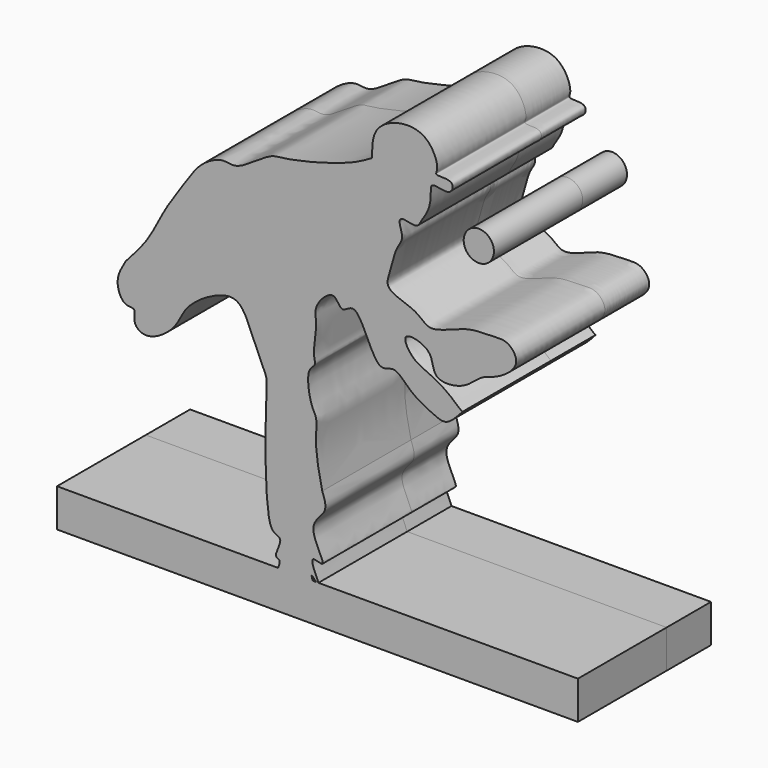
from build123d import *

# Parameters (mm, degrees)
F1_DEPTH = 12.7
F0_R     = 3.4646525672
F2_DEPTH = 25.4


with BuildPart() as f1:
    # F0 (on Front) → F1 (new body)
    with BuildSketch(Plane.XZ):
        with BuildLine():
            add(Edge.make_bspline(
                [(-37.4386571348, 0), (-35.6418648103, 1.9655861704), (-32.0202403871, 5.9274323913), (-28.6948333521, 13.3963000649), (-23.8638983433, 20.1218328372), (-20.6492472937, 25.3070509285), (-15.2343028794, 28.1800373183), (-11.8982889507, 26.4144016114), (-4.466286247, 32.5241939032), (-1.2565267657, 32.1837075576), (12.9247121568, 35.6315258291), (17.1605435375, 38.085105449), (18.9292877913, 39.1096398234)],
                knots=[0, 0, 0, 0, 0.1066947881, 0.2150545977, 0.3237254241, 0.4182542597, 0.5057213855, 0.57465581, 0.6846331194, 0.757140384, 0.8985897899, 1, 1, 1, 1], degree=3))
            add(Edge.make_bspline(
                [(-37.4386571348, 0), (-38.3676544146, -1.5464404413), (-40.1392214332, -4.4954511019), (-38.0019809899, -9.3708640599), (-34.7987965325, -8.5192537949), (-36.0765875101, -12.1020025034), (-32.2136181881, -14.5717645155), (-25.5066142614, -9.8101602808), (-24.1737245259, -4.4613822747), (-16.5608733486, 0.4662887906), (-10.9088773004, 1.0681816016), (-8.2388595476, -6.4595978002), (-5.0136019945, -12.9118980509), (-5.2889076985, -14.8788062005), (-5.9544869903, -43.2746316243), (-2.7504183063, -43.865057337), (-1.4772856155, -44.8682549686), (-3.8430471049, -48.658190148), (-1.8546676317, -48.5717170273), (-2.302459375, -49.826374902), (-2.5417198464, -50.4994094372)],
                knots=[0, 0, 0, 0, 0.0397044538, 0.0757150772, 0.1003051297, 0.1280418001, 0.1598589216, 0.2067370922, 0.2481789907, 0.2993007354, 0.3366059884, 0.384103306, 0.4292879246, 0.4587010987, 0.5493166266, 0.5753678742, 0.5939703998, 0.6263447068, 0.6438741036, 0.6600466888, 0.6600466888, 0.6600466888, 0.6600466888], degree=3))
            Line((-2.5417198464, -50.4994094372), (5.3642448427, -50.4994094372))
            add(Edge.make_bspline(
                [(5.3642448427, -50.4994094372), (5.1872521502, -49.9223948707), (4.9432925694, -49.1159948327), (5.7584284263, -50.0560892457), (6.1445142804, -50.4994094372)],
                knots=[0.7737397858, 0.7737397858, 0.7737397858, 0.7737397858, 0.7875860869, 0.80146309, 0.80146309, 0.80146309, 0.80146309], degree=3))
            Line((6.1445142804, -50.4994094372), (6.6925615738, -50.4994094372))
            add(Edge.make_bspline(
                [(6.6925615738, -50.4994094372), (6.1497521085, -49.2305339603), (3.9806719548, -44.7196945557), (9.7823822852, -48.1277255261), (3.241456153, -39.2437824003), (9.1648869953, -36.0624895955), (8.0826138261, -33.106578341), (7.5749126263, -31.7199416459)],
                knots=[0.8253764959, 0.8253764959, 0.8253764959, 0.8253764959, 0.8550198068, 0.8809728233, 0.925899364, 0.9652389222, 1, 1, 1, 1], degree=3))
            add(Edge.make_bspline(
                [(7.5749126263, -31.7199416459), (6.9007289659, -28.6215203257), (5.7167167982, -23.1800230606), (6.5872697264, -17.3428759363), (4.9137868666, -15.6343272657), (3.6335738336, -8.2226718754), (6.3274530786, -6.93087691), (5.2275576346, -4.727973781), (6.6441528494, 1.8058092968), (5.3020110852, 4.9729828932), (10.4044517509, 10.3303081299), (11.8669921686, 5.0261132156), (15.8124792651, 10.1812793873), (19.7195141916, -4.5468018538), (24.1651227879, -0.669337993), (27.5759499216, -5.3810562057), (33.1393409406, -8.0399713443), (36.182605596, -9.2115149339), (38.4387136729, -6.6922623194), (39.7358611226, -5.2438201383)],
                knots=[0, 0, 0, 0, 0.0836305405, 0.1468732979, 0.1898394028, 0.2621869099, 0.3027888617, 0.3415066155, 0.4118124484, 0.4646354261, 0.5265395243, 0.5733675321, 0.6197107456, 0.7115840397, 0.760849205, 0.8223462561, 0.8923864002, 0.9381276509, 1, 1, 1, 1], degree=3))
            add(Edge.make_bspline(
                [(18.9292877913, 39.1096398234), (18.9591685738, 41.285550804), (19.019225108, 45.6588523335), (25.3218155341, 48.8999824127), (32.0729586831, 48.0576183064), (34.4713220772, 41.9789568134), (32.9868731409, 40.138323117), (38.0313053669, 41.0097200411), (37.0863196605, 36.8863632272), (32.1201353052, 39.1660366545), (32.6236885862, 35.8054257064), (31.8819190849, 32.3923635691), (30.2456114663, 30.4129228347), (29.4179544277, 28.0960985455), (25.8797928387, 29.5786010397), (24.9184908986, 28.3036361224), (26.5038160257, 25.1030814733), (24.2104553794, 22.7249215249), (23.553213385, 18.294025084), (21.261102504, 13.4074489309), (29.4781112269, 12.0127108011), (32.0428015222, 7.7897926849), (40.4065578761, 12.4162113215), (46.1694860671, 11.9787507009), (50.1960357067, 12.6191324529), (53.48657794, 8.0383865732), (47.3702700881, 3.8589387248), (43.8408854434, 3.4885690759), (40.3589228479, -0.7052087651), (32.3422319557, -1.2855894929), (33.4354510369, 5.0969400298), (25.0358649123, 6.9891331793), (28.1033456519, 1.498008455), (31.9035234217, 0.1200307441), (36.8341064801, -2.5896351977), (39.4674523496, -5.3623619448), (39.7358611226, -5.2438201383)],
                knots=[0, 0, 0, 0, 0.0354847468, 0.0713197823, 0.1073875319, 0.1415713891, 0.1568108096, 0.1833216714, 0.203963959, 0.2320003285, 0.2531826547, 0.2806956794, 0.3039117204, 0.3237492718, 0.3492590555, 0.3638553642, 0.3890455465, 0.4137455279, 0.4448107897, 0.4733427362, 0.5105581185, 0.5398839847, 0.5812480451, 0.6166487857, 0.6443206805, 0.6726095766, 0.708180985, 0.7355779146, 0.7685958669, 0.8038613339, 0.8351148808, 0.8680393997, 0.8954363324, 0.9255631648, 0.9612267014, 0.9875317784, 0.9875317784, 0.9875317784, 0.9875317784], degree=3))
        make_face()
        with BuildLine():
            Line((5.3642448427, -50.4994094372), (-2.5417198464, -50.4994094372))
            add(Edge.make_bspline(
                [(-2.5417198464, -50.4994094372), (-2.8098953325, -51.2537812839), (-3.7252672636, -53.8378827838), (1.1909552642, -54.5208851831), (6.707524503, -54.8445623852), (5.6240423951, -51.3463764498), (5.3642448427, -50.4994094372)],
                knots=[0.6600466888, 0.6600466888, 0.6600466888, 0.6600466888, 0.6781737572, 0.715578416, 0.7534155845, 0.7737397858, 0.7737397858, 0.7737397858, 0.7737397858], degree=3))
        make_face()
        with BuildLine():
            add(Edge.make_bspline(
                [(-2.5417198464, -50.4994094372), (-2.8098953325, -51.2537812839), (-3.7252672636, -53.8378827838), (1.1909552642, -54.5208851831), (6.707524503, -54.8445623852), (5.6240423951, -51.3463764498), (5.3642448427, -50.4994094372)],
                knots=[0.6600466888, 0.6600466888, 0.6600466888, 0.6600466888, 0.6781737572, 0.715578416, 0.7534155845, 0.7737397858, 0.7737397858, 0.7737397858, 0.7737397858], degree=3))
            Line((-2.5417198464, -50.4994094372), (-53.1821884215, -50.4994094372))
            Line((-53.1821884215, -50.4994094372), (-53.1821884215, -59.2210108976))
            Line((-53.1821884215, -59.2210108976), (66.1226585507, -59.2210108976))
            Line((66.1226585507, -59.2210108976), (66.1226585507, -50.4994094372))
            Line((66.1226585507, -50.4994094372), (6.6925615738, -50.4994094372))
            add(Edge.make_bspline(
                [(6.1445142804, -50.4994094372), (6.5186028583, -50.928953846), (7.1472993515, -51.6474058709), (6.8842379506, -50.947473573), (6.6925615738, -50.4994094372)],
                knots=[0.80146309, 0.80146309, 0.80146309, 0.80146309, 0.8149088774, 0.8253764959, 0.8253764959, 0.8253764959, 0.8253764959], degree=3))
            Line((6.1445142804, -50.4994094372), (5.3642448427, -50.4994094372))
        make_face()
        with BuildLine():
            Line((6.6925615738, -50.4994094372), (6.1445142804, -50.4994094372))
            add(Edge.make_bspline(
                [(6.1445142804, -50.4994094372), (6.5186028583, -50.928953846), (7.1472993515, -51.6474058709), (6.8842379506, -50.947473573), (6.6925615738, -50.4994094372)],
                knots=[0.80146309, 0.80146309, 0.80146309, 0.80146309, 0.8149088774, 0.8253764959, 0.8253764959, 0.8253764959, 0.8253764959], degree=3))
        make_face()
    extrude(amount=-F1_DEPTH)


with BuildPart() as f1b:
    # F0 (on Front) → F1, piece 2 (new body)
    with BuildSketch(Plane.XZ):
        with Locations((43.4240847826, 29.3800681829)):
            Circle(F0_R)
    extrude(amount=-F1_DEPTH)


with BuildPart() as f2:
    # F0 (on Front) → F2 (new body)
    with BuildSketch(Plane.XZ):
        with BuildLine():
            add(Edge.make_bspline(
                [(-37.4386571348, 0), (-35.6418648103, 1.9655861704), (-32.0202403871, 5.9274323913), (-28.6948333521, 13.3963000649), (-23.8638983433, 20.1218328372), (-20.6492472937, 25.3070509285), (-15.2343028794, 28.1800373183), (-11.8982889507, 26.4144016114), (-4.466286247, 32.5241939032), (-1.2565267657, 32.1837075576), (12.9247121568, 35.6315258291), (17.1605435375, 38.085105449), (18.9292877913, 39.1096398234)],
                knots=[0, 0, 0, 0, 0.1066947881, 0.2150545977, 0.3237254241, 0.4182542597, 0.5057213855, 0.57465581, 0.6846331194, 0.757140384, 0.8985897899, 1, 1, 1, 1], degree=3))
            add(Edge.make_bspline(
                [(-37.4386571348, 0), (-38.3676544146, -1.5464404413), (-40.1392214332, -4.4954511019), (-38.0019809899, -9.3708640599), (-34.7987965325, -8.5192537949), (-36.0765875101, -12.1020025034), (-32.2136181881, -14.5717645155), (-25.5066142614, -9.8101602808), (-24.1737245259, -4.4613822747), (-16.5608733486, 0.4662887906), (-10.9088773004, 1.0681816016), (-8.2388595476, -6.4595978002), (-5.0136019945, -12.9118980509), (-5.2889076985, -14.8788062005), (-5.9544869903, -43.2746316243), (-2.7504183063, -43.865057337), (-1.4772856155, -44.8682549686), (-3.8430471049, -48.658190148), (-1.8546676317, -48.5717170273), (-2.302459375, -49.826374902), (-2.5417198464, -50.4994094372)],
                knots=[0, 0, 0, 0, 0.0397044538, 0.0757150772, 0.1003051297, 0.1280418001, 0.1598589216, 0.2067370922, 0.2481789907, 0.2993007354, 0.3366059884, 0.384103306, 0.4292879246, 0.4587010987, 0.5493166266, 0.5753678742, 0.5939703998, 0.6263447068, 0.6438741036, 0.6600466888, 0.6600466888, 0.6600466888, 0.6600466888], degree=3))
            Line((-2.5417198464, -50.4994094372), (5.3642448427, -50.4994094372))
            add(Edge.make_bspline(
                [(5.3642448427, -50.4994094372), (5.1872521502, -49.9223948707), (4.9432925694, -49.1159948327), (5.7584284263, -50.0560892457), (6.1445142804, -50.4994094372)],
                knots=[0.7737397858, 0.7737397858, 0.7737397858, 0.7737397858, 0.7875860869, 0.80146309, 0.80146309, 0.80146309, 0.80146309], degree=3))
            Line((6.1445142804, -50.4994094372), (6.6925615738, -50.4994094372))
            add(Edge.make_bspline(
                [(6.6925615738, -50.4994094372), (6.1497521085, -49.2305339603), (3.9806719548, -44.7196945557), (9.7823822852, -48.1277255261), (3.241456153, -39.2437824003), (9.1648869953, -36.0624895955), (8.0826138261, -33.106578341), (7.5749126263, -31.7199416459)],
                knots=[0.8253764959, 0.8253764959, 0.8253764959, 0.8253764959, 0.8550198068, 0.8809728233, 0.925899364, 0.9652389222, 1, 1, 1, 1], degree=3))
            add(Edge.make_bspline(
                [(7.5749126263, -31.7199416459), (6.9007289659, -28.6215203257), (5.7167167982, -23.1800230606), (6.5872697264, -17.3428759363), (4.9137868666, -15.6343272657), (3.6335738336, -8.2226718754), (6.3274530786, -6.93087691), (5.2275576346, -4.727973781), (6.6441528494, 1.8058092968), (5.3020110852, 4.9729828932), (10.4044517509, 10.3303081299), (11.8669921686, 5.0261132156), (15.8124792651, 10.1812793873), (19.7195141916, -4.5468018538), (24.1651227879, -0.669337993), (27.5759499216, -5.3810562057), (33.1393409406, -8.0399713443), (36.182605596, -9.2115149339), (38.4387136729, -6.6922623194), (39.7358611226, -5.2438201383)],
                knots=[0, 0, 0, 0, 0.0836305405, 0.1468732979, 0.1898394028, 0.2621869099, 0.3027888617, 0.3415066155, 0.4118124484, 0.4646354261, 0.5265395243, 0.5733675321, 0.6197107456, 0.7115840397, 0.760849205, 0.8223462561, 0.8923864002, 0.9381276509, 1, 1, 1, 1], degree=3))
            add(Edge.make_bspline(
                [(18.9292877913, 39.1096398234), (18.9591685738, 41.285550804), (19.019225108, 45.6588523335), (25.3218155341, 48.8999824127), (32.0729586831, 48.0576183064), (34.4713220772, 41.9789568134), (32.9868731409, 40.138323117), (38.0313053669, 41.0097200411), (37.0863196605, 36.8863632272), (32.1201353052, 39.1660366545), (32.6236885862, 35.8054257064), (31.8819190849, 32.3923635691), (30.2456114663, 30.4129228347), (29.4179544277, 28.0960985455), (25.8797928387, 29.5786010397), (24.9184908986, 28.3036361224), (26.5038160257, 25.1030814733), (24.2104553794, 22.7249215249), (23.553213385, 18.294025084), (21.261102504, 13.4074489309), (29.4781112269, 12.0127108011), (32.0428015222, 7.7897926849), (40.4065578761, 12.4162113215), (46.1694860671, 11.9787507009), (50.1960357067, 12.6191324529), (53.48657794, 8.0383865732), (47.3702700881, 3.8589387248), (43.8408854434, 3.4885690759), (40.3589228479, -0.7052087651), (32.3422319557, -1.2855894929), (33.4354510369, 5.0969400298), (25.0358649123, 6.9891331793), (28.1033456519, 1.498008455), (31.9035234217, 0.1200307441), (36.8341064801, -2.5896351977), (39.4674523496, -5.3623619448), (39.7358611226, -5.2438201383)],
                knots=[0, 0, 0, 0, 0.0354847468, 0.0713197823, 0.1073875319, 0.1415713891, 0.1568108096, 0.1833216714, 0.203963959, 0.2320003285, 0.2531826547, 0.2806956794, 0.3039117204, 0.3237492718, 0.3492590555, 0.3638553642, 0.3890455465, 0.4137455279, 0.4448107897, 0.4733427362, 0.5105581185, 0.5398839847, 0.5812480451, 0.6166487857, 0.6443206805, 0.6726095766, 0.708180985, 0.7355779146, 0.7685958669, 0.8038613339, 0.8351148808, 0.8680393997, 0.8954363324, 0.9255631648, 0.9612267014, 0.9875317784, 0.9875317784, 0.9875317784, 0.9875317784], degree=3))
        make_face()
        with BuildLine():
            Line((5.3642448427, -50.4994094372), (-2.5417198464, -50.4994094372))
            add(Edge.make_bspline(
                [(-2.5417198464, -50.4994094372), (-2.8098953325, -51.2537812839), (-3.7252672636, -53.8378827838), (1.1909552642, -54.5208851831), (6.707524503, -54.8445623852), (5.6240423951, -51.3463764498), (5.3642448427, -50.4994094372)],
                knots=[0.6600466888, 0.6600466888, 0.6600466888, 0.6600466888, 0.6781737572, 0.715578416, 0.7534155845, 0.7737397858, 0.7737397858, 0.7737397858, 0.7737397858], degree=3))
        make_face()
        with BuildLine():
            add(Edge.make_bspline(
                [(-2.5417198464, -50.4994094372), (-2.8098953325, -51.2537812839), (-3.7252672636, -53.8378827838), (1.1909552642, -54.5208851831), (6.707524503, -54.8445623852), (5.6240423951, -51.3463764498), (5.3642448427, -50.4994094372)],
                knots=[0.6600466888, 0.6600466888, 0.6600466888, 0.6600466888, 0.6781737572, 0.715578416, 0.7534155845, 0.7737397858, 0.7737397858, 0.7737397858, 0.7737397858], degree=3))
            Line((-2.5417198464, -50.4994094372), (-53.1821884215, -50.4994094372))
            Line((-53.1821884215, -50.4994094372), (-53.1821884215, -59.2210108976))
            Line((-53.1821884215, -59.2210108976), (66.1226585507, -59.2210108976))
            Line((66.1226585507, -59.2210108976), (66.1226585507, -50.4994094372))
            Line((66.1226585507, -50.4994094372), (6.6925615738, -50.4994094372))
            add(Edge.make_bspline(
                [(6.1445142804, -50.4994094372), (6.5186028583, -50.928953846), (7.1472993515, -51.6474058709), (6.8842379506, -50.947473573), (6.6925615738, -50.4994094372)],
                knots=[0.80146309, 0.80146309, 0.80146309, 0.80146309, 0.8149088774, 0.8253764959, 0.8253764959, 0.8253764959, 0.8253764959], degree=3))
            Line((6.1445142804, -50.4994094372), (5.3642448427, -50.4994094372))
        make_face()
        with BuildLine():
            Line((6.6925615738, -50.4994094372), (6.1445142804, -50.4994094372))
            add(Edge.make_bspline(
                [(6.1445142804, -50.4994094372), (6.5186028583, -50.928953846), (7.1472993515, -51.6474058709), (6.8842379506, -50.947473573), (6.6925615738, -50.4994094372)],
                knots=[0.80146309, 0.80146309, 0.80146309, 0.80146309, 0.8149088774, 0.8253764959, 0.8253764959, 0.8253764959, 0.8253764959], degree=3))
        make_face()
    extrude(amount=F2_DEPTH)


with BuildPart() as f2b:
    # F0 (on Front) → F2, piece 2 (new body)
    with BuildSketch(Plane.XZ):
        with Locations((43.4240847826, 29.3800681829)):
            Circle(F0_R)
    extrude(amount=F2_DEPTH)


solid = Compound([f1.part, f1b.part, f2.part, f2b.part])
